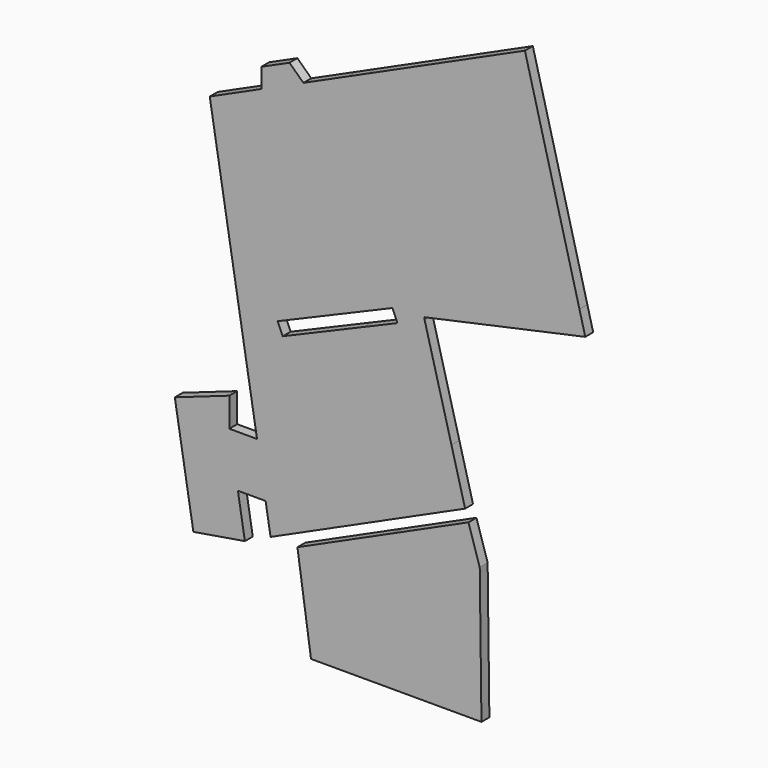
from build123d import *

# Parameters (mm, degrees)
F1_DEPTH = 25


with BuildPart() as f1:
    # F0 (on Front) → F1 (new body)
    with BuildSketch(Plane.XZ):
        Polygon((288.956644, 415.68798), (389.6205, 461.319645), (355.148525, 591.650006), align=None)
        Polygon((-34.349123, 237.529236), (0, 0), (143, 0), (280, 0), (285, 0), (204.278067, 345.700694), align=None)
        Polygon((213.385975, 349.829375), (204.278067, 345.700694), (285, 0), (295, 0), align=None)
        Polygon((398.276507, 433.641612), (213.385975, 349.829375), (295, 0), (431, 0), (426.632392, 342.972191), align=None)
        Polygon((-102.276537, 238.339105), (288.956644, 415.68798), (355.148525, 591.650006), (287.339004, 848.021721), (218.347295, 818.608389), (133.717466, 782.528035), (-71.584913, 695.001183), (-170.765942, 652.717195), (-136.480961, 445.284456), (-114.837999, 314.339105), align=None)
        Polygon((218.347295, 818.608389), (287.339004, 848.021721), (287.062313, 854.065494), (291.670075, 855.238971), (259.151869, 884.071267), (240.315159, 862.826479), (205.773901, 848.100456), align=None)
        Polygon((-184.837999, 314.339105), (-114.837999, 314.339105), (-136.480961, 445.284456), (-206.700631, 445.284456), (-206.700631, 518.864271), (-344.423716, 470.404473), (-297.459552, 186.259497), (-167.226438, 207.784739), align=None)
        Polygon((291.670075, 855.238971), (287.062313, 854.065494), (693.556365, 942.488261), (678.717333, 999.591703), (540.890391, 1529.976218), (142.874811, 1349.552832), (279.251338, 987.831595), (227.896388, 968.469697), (92.781317, 1326.845083), (-19.245951, 1276.0623), (-125.808475, 1227.756725), (-256.051559, 1168.716578), (-176.147253, 685.275473), (-84.158308, 724.49325), (109.018477, 806.85058), (121.144071, 812.020102), (205.773901, 848.100456), (240.315159, 862.826479), (259.151869, 884.071267), align=None)
        Polygon((-176.147253, 685.275473), (-170.765942, 652.717195), (-71.584913, 695.001183), (-84.158308, 724.49325), align=None)
        Polygon((279.251338, 987.831595), (142.874811, 1349.552832), (92.781317, 1326.845083), (227.896388, 968.469697), align=None)
        Polygon((-125.808475, 1277.164339), (-125.808475, 1227.756725), (-19.245951, 1276.0623), (-54.414264, 1309.527859), align=None)
    extrude(amount=F1_DEPTH)


solid = f1.part
